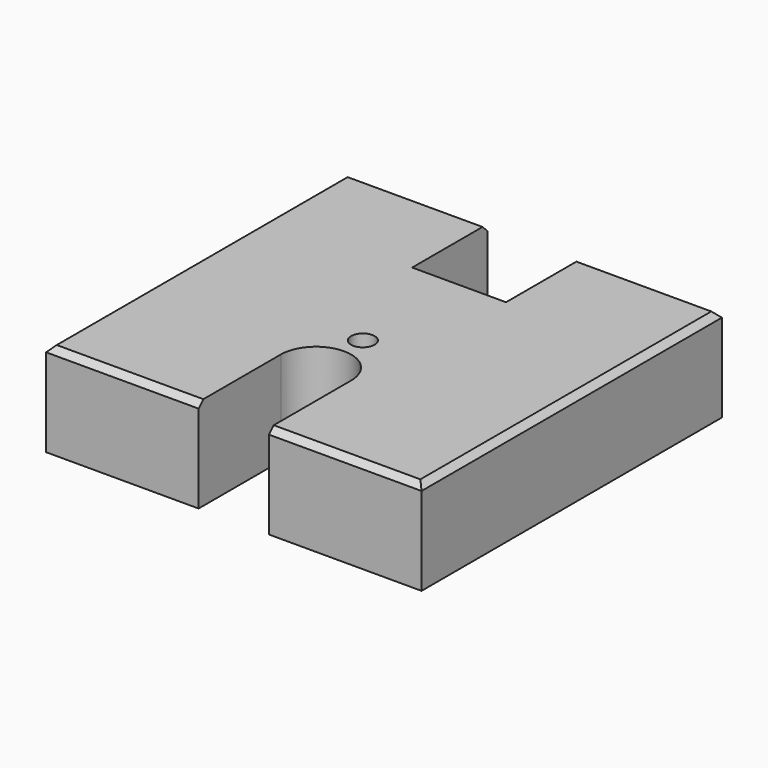
from build123d import *

# Parameters (mm, degrees)
F0_R     = 3.1877
F1_DEPTH = 25.4
F3_DEPTH = 3.175
F4_SIZE  = 1.6002
F5_R     = 4.7625
F6_DEPTH = 19.05


with BuildPart() as f1:
    # F0 (on Top) → F1 (new body)
    with BuildSketch(Plane.XY):
        with BuildLine():
            Line((-12.7, 50.8), (-50.8, 50.8))
            Line((-50.8, 50.8), (-50.8, -50.8))
            Line((-50.8, -50.8), (-9.525, -50.8))
            Line((-9.525, -50.8), (-9.525, -23.0124))
            ThreePointArc((-9.525, -23.0124), (0, -13.4874), (9.525, -23.0124))
            Line((9.525, -23.0124), (9.525, -50.8))
            Line((9.525, -50.8), (50.8, -50.8))
            Line((50.8, -50.8), (50.8, 50.8))
            Line((50.8, 50.8), (12.7, 50.8))
            Line((12.7, 50.8), (12.7, 25.4))
            Line((12.7, 25.4), (-12.7, 25.4))
            Line((-12.7, 25.4), (-12.7, 50.8))
        make_face()
        with Locations((0, -7.1374)):
            Circle(F0_R, mode=Mode.SUBTRACT)
    extrude(amount=F1_DEPTH)

    # F2 (on face) → F3 (cut)
    with BuildSketch(Plane(origin=(0, 0, 0), x_dir=(1, 0, 0), z_dir=(0, 0, -1))):
        with BuildLine():
            Line((-12.7, -22.225), (-12.7, -25.4))
            Line((-12.7, -25.4), (12.7, -25.4))
            Line((12.7, -25.4), (12.7, -22.225))
            ThreePointArc((12.7, -22.225), (9.525, -19.05), (6.35, -22.225))
            Line((6.35, -22.225), (-6.35, -22.225))
            ThreePointArc((-6.35, -22.225), (-9.525, -19.05), (-12.7, -22.225))
        make_face()
    extrude(amount=-F3_DEPTH, mode=Mode.SUBTRACT)

    # F4
    f4_edges = [f1.edges().sort_by_distance(p)[0] for p in [
        (-50.8, 0, 25.4),
        (-30.1625, -50.8, 25.4),
        (30.1625, -50.8, 25.4),
        (50.8, 0, 25.4),
        (31.75, 50.8, 25.4),
        (-31.75, 50.8, 25.4),
    ]]
    chamfer(f4_edges, length=F4_SIZE)

    # F5 (on face) → F6 (cut)
    with BuildSketch(Plane(origin=(0, 25.4, 0), x_dir=(-1, 0, 0), z_dir=(0, 1, 0))):
        with Locations((0, 14.3002)):
            Circle(F5_R)
    extrude(amount=-F6_DEPTH, mode=Mode.SUBTRACT)


solid = f1.part
